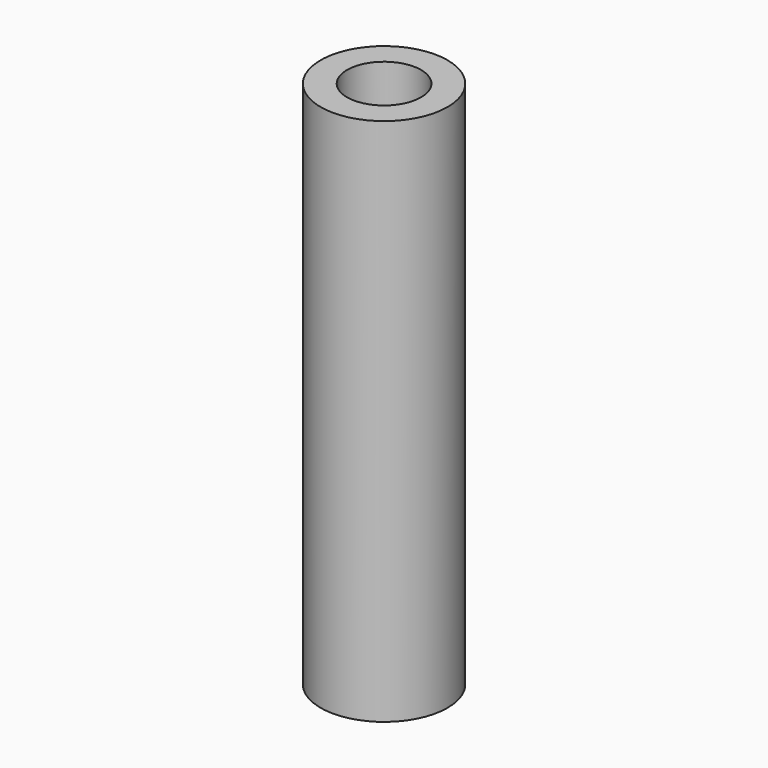
from build123d import *

# Parameters (mm, degrees)
F0_R     = 3
F0_R_2   = 1.75
F1_DEPTH = 12.5
F3_R     = 1.75
F4_DEPTH = 9


with BuildPart() as f1:
    # F0 (on Top) → F1 (new body, symmetric)
    with BuildSketch(Plane.XY):
        Circle(F0_R)
        Circle(F0_R_2, mode=Mode.SUBTRACT)
        Circle(F0_R_2)
    extrude(amount=F1_DEPTH, both=True)

    # F3 (on offset) → F4 (cut)
    with BuildSketch(Plane.XY.offset(12.5)):
        Circle(F3_R)
    extrude(amount=-F4_DEPTH, mode=Mode.SUBTRACT)


solid = f1.part
